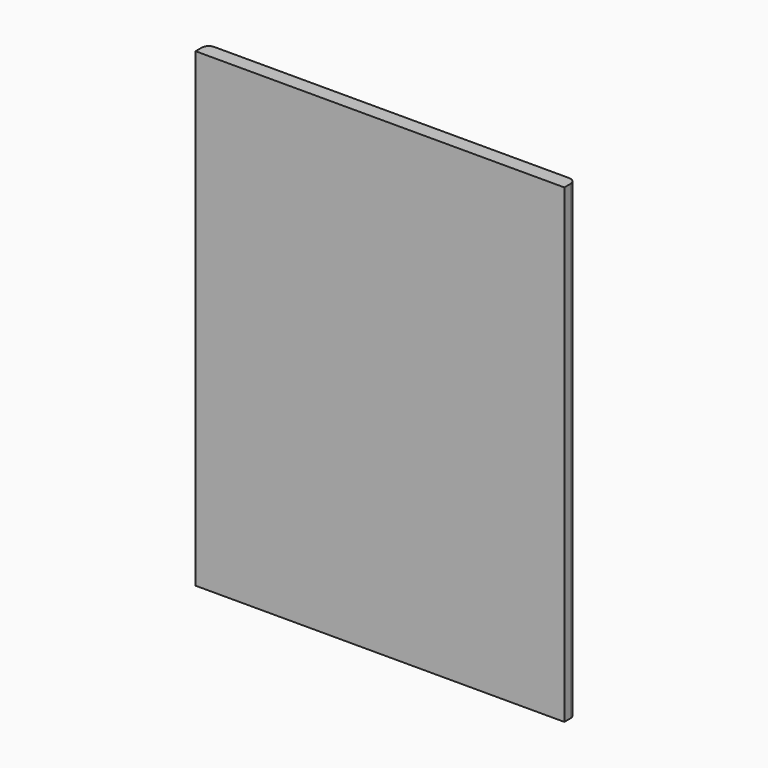
from build123d import *

# Parameters (mm, degrees)
F0_W     = 525
F0_H     = 670
F1_DEPTH = 21
F2_R     = 10


with BuildPart() as f1:
    # F0 (on Front) → F1 (new body)
    with BuildSketch(Plane.XZ):
        Rectangle(F0_W, F0_H)
        Rectangle(F0_W, F0_H)
    extrude(amount=F1_DEPTH)

    # F2
    f2_edges = [f1.edges().sort_by_distance(p)[0] for p in [
        (-262.5, 0, 0),
        (262.5, 0, 0),
    ]]
    fillet(f2_edges, radius=F2_R)


solid = f1.part
